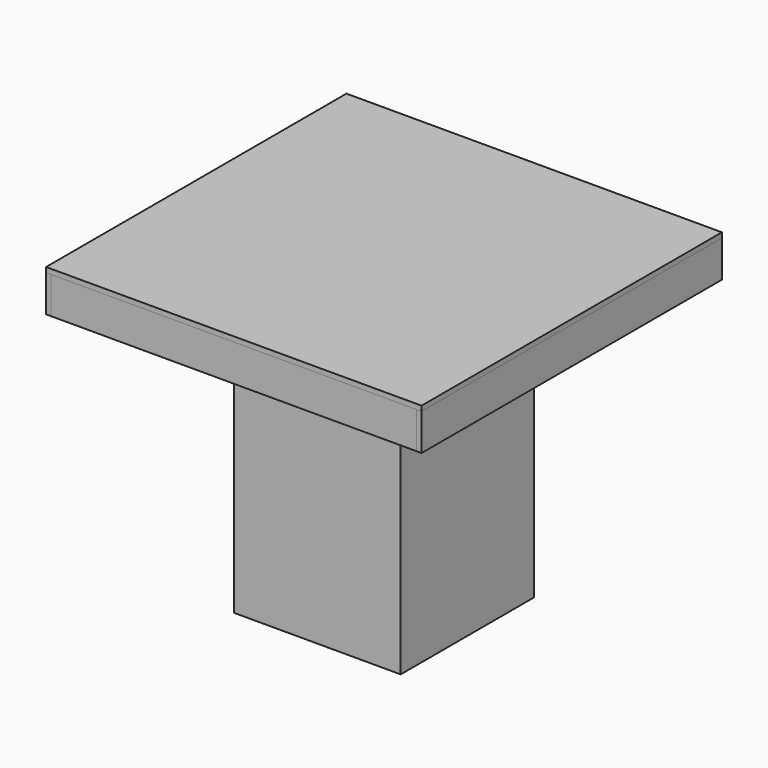
from build123d import *

# Parameters (mm, degrees)
F0_W     = 900
F0_H     = 900
F1_DEPTH = 12
F3_DEPTH = 88
F2_W     = 876
F2_H     = 12
F4_DEPTH = 88
F5_DEPTH = 88
F6_DEPTH = 88
F7_W     = 376
F7_H     = 12
F8_DEPTH = 738


with BuildPart() as f1:
    # F0 (on Top) → F1 (new body)
    with BuildSketch(Plane.XY):
        Rectangle(F0_W, F0_H)
    extrude(amount=F1_DEPTH)

    # F7 (on face) → F8 (join)
    with BuildSketch(Plane(origin=(0, 0, 0), x_dir=(1, 0, 0), z_dir=(0, 0, -1))):
        Polygon((-188, 200), (-200, 200), (-200, -200), (-188, -200), (-188, -188), (-188, 188), align=None)
        with Locations((0, 194)):
            Rectangle(F7_W, F7_H)
        Polygon((200, 200), (188, 200), (188, 188), (188, -188), (188, -200), (200, -200), align=None)
        with Locations((0, -194)):
            Rectangle(F7_W, F7_H)
    extrude(amount=F8_DEPTH)


with BuildPart() as f3:
    # F2 (on face) → F3 (new body)
    with BuildSketch(Plane(origin=(0, 0, 0), x_dir=(1, 0, 0), z_dir=(0, 0, -1))):
        Polygon((-438, 450), (-450, 450), (-450, -450), (-438, -450), (-438, -438), (-438, 438), align=None)
    extrude(amount=F3_DEPTH)


with BuildPart() as f4:
    # F2 (on face) → F4 (new body)
    with BuildSketch(Plane(origin=(0, 0, 0), x_dir=(1, 0, 0), z_dir=(0, 0, -1))):
        with Locations((0, 444)):
            Rectangle(F2_W, F2_H)
    extrude(amount=F4_DEPTH)


with BuildPart() as f5:
    # F2 (on face) → F5 (new body)
    with BuildSketch(Plane(origin=(0, 0, 0), x_dir=(1, 0, 0), z_dir=(0, 0, -1))):
        Polygon((450, 450), (438, 450), (438, 438), (438, -438), (438, -450), (450, -450), align=None)
    extrude(amount=F5_DEPTH)


with BuildPart() as f6:
    # F2 (on face) → F6 (new body)
    with BuildSketch(Plane(origin=(0, 0, 0), x_dir=(1, 0, 0), z_dir=(0, 0, -1))):
        with Locations((0, -444)):
            Rectangle(F2_W, F2_H)
    extrude(amount=F6_DEPTH)


solid = Compound([f1.part, f3.part, f4.part, f5.part, f6.part])
